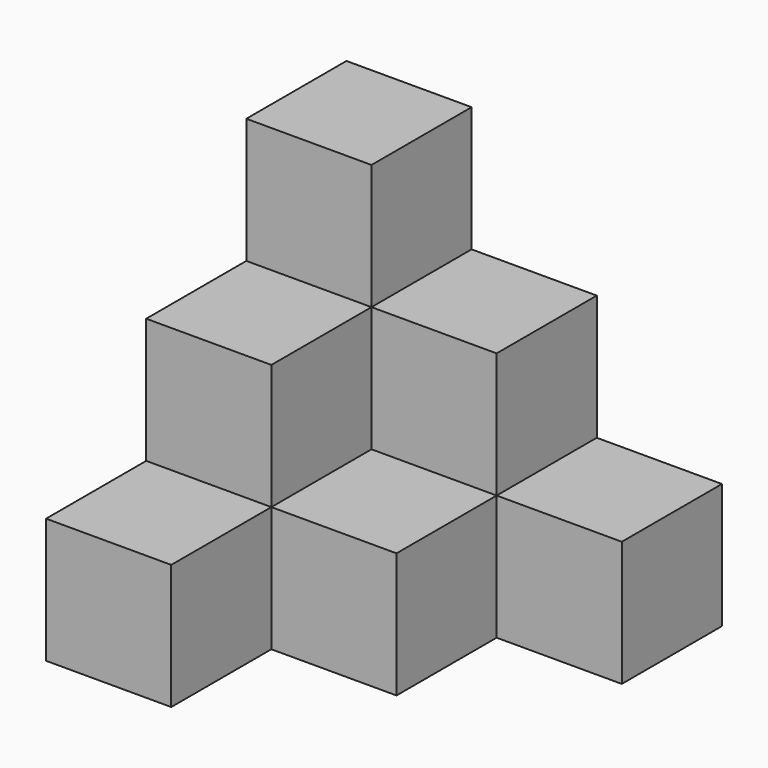
from build123d import *

# Parameters (mm, degrees)
BOX001_W     = 10
BOX001_H     = 10
BOX001_DEPTH = 20
BOX002_W     = 10
BOX002_H     = 10
BOX002_DEPTH = 20
BOX003_W     = 10
BOX003_H     = 10
BOX003_DEPTH = 10
BOX004_W     = 10
BOX004_H     = 10
BOX004_DEPTH = 10
BOX005_W     = 10
BOX005_H     = 10
BOX005_DEPTH = 10
BOX_W        = 10
BOX_H        = 10
BOX_DEPTH    = 30


with BuildPart() as cube001:
    # Box001 → Box001 (new body)
    with BuildSketch(Plane(origin=(10, 0, 0), x_dir=(1, 0, 0), z_dir=(0, 0, 1))):
        with Locations((5, 5)):
            Rectangle(BOX001_W, BOX001_H)
    extrude(amount=BOX001_DEPTH)


with BuildPart() as cube002:
    # Box002 → Box002 (new body)
    with BuildSketch(Plane(origin=(0, -10, 0), x_dir=(1, 0, 0), z_dir=(0, 0, 1))):
        with Locations((5, 5)):
            Rectangle(BOX002_W, BOX002_H)
    extrude(amount=BOX002_DEPTH)


with BuildPart() as cube003:
    # Box003 → Box003 (new body)
    with BuildSketch(Plane(origin=(10, -10, 0), x_dir=(1, 0, 0), z_dir=(0, 0, 1))):
        with Locations((5, 5)):
            Rectangle(BOX003_W, BOX003_H)
    extrude(amount=BOX003_DEPTH)


with BuildPart() as cube004:
    # Box004 → Box004 (new body)
    with BuildSketch(Plane(origin=(0, -20, 0), x_dir=(1, 0, 0), z_dir=(0, 0, 1))):
        with Locations((5, 5)):
            Rectangle(BOX004_W, BOX004_H)
    extrude(amount=BOX004_DEPTH)


with BuildPart() as cube005:
    # Box005 → Box005 (new body)
    with BuildSketch(Plane(origin=(20, 0, 0), x_dir=(1, 0, 0), z_dir=(0, 0, 1))):
        with Locations((5, 5)):
            Rectangle(BOX005_W, BOX005_H)
    extrude(amount=BOX005_DEPTH)


with BuildPart() as fusion:
    # Box → Box (new body)
    with BuildSketch(Plane.XY):
        with Locations((5, 5)):
            Rectangle(BOX_W, BOX_H)
    extrude(amount=BOX_DEPTH)

    # Fusion: union Cube001, Cube002, Cube003, Cube004, Cube005
    add(cube001.part)
    add(cube002.part)
    add(cube003.part)
    add(cube004.part)
    add(cube005.part)


solid = fusion.part
